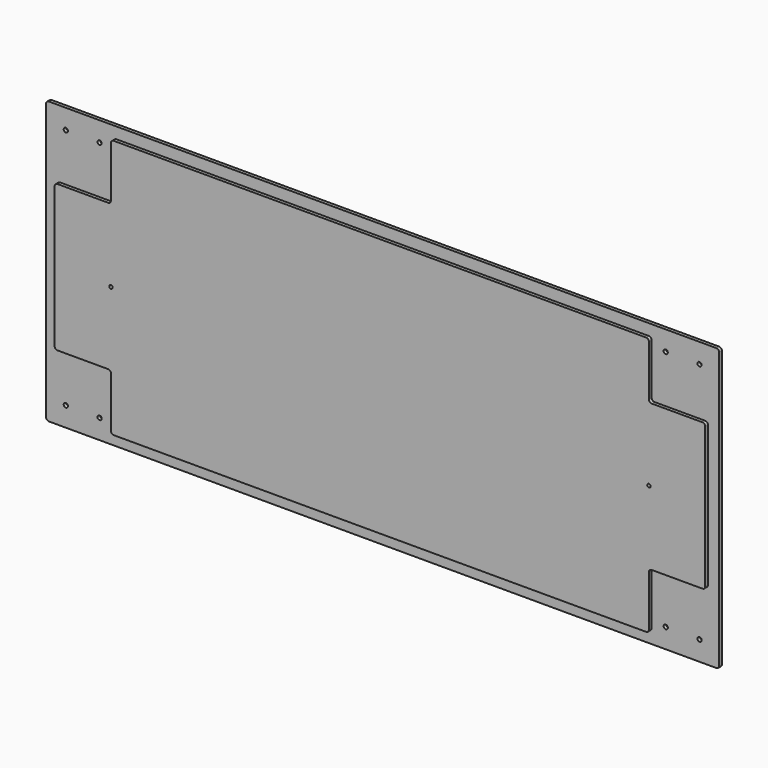
from build123d import *

# Parameters (mm, degrees)
F0_W     = 1154.9995206296
F0_H     = 460.000410676
F1_DEPTH = 6
F2_W     = 100
F2_H     = 100
F3_DEPTH = 6
F4_R     = 5
F5_W     = 1195
F5_H     = 500
F6_DEPTH = 3
F7_W     = 1195
F7_H     = 500
F8_DEPTH = 3
F9_R     = 5
F10_D    = 7.5
F12_D    = 6


with BuildPart() as f1:
    # F0 (on Front) → F1 (new body)
    with BuildSketch(Plane.XZ):
        with Locations((597.5013840944, 56.0599192977)):
            Rectangle(F0_W, F0_H)
    extrude(amount=F1_DEPTH)

    # F2 (on face) → F3 (cut)
    with BuildSketch(Plane.XZ.offset(6)):
        with Locations((70.0016237795, 236.0601246357)):
            Rectangle(F2_W, F2_H)
        with Locations((1125.0011444092, -123.9402860403)):
            Rectangle(F2_W, F2_H)
        with Locations((1125.0011444092, 236.0601246357)):
            Rectangle(F2_W, F2_H)
        with Locations((70.0016237795, -123.9402860403)):
            Rectangle(F2_W, F2_H)
    extrude(amount=-F3_DEPTH, mode=Mode.SUBTRACT)

    # F4
    f4_edges = [f1.edges().sort_by_distance(p)[0] for p in [
        (120.001624, -3, 286.060125),
        (120.001624, -3, 186.060125),
        (20.001624, -3, 186.060125),
        (20.001624, -3, -73.940286),
        (120.001624, -3, -73.940286),
        (120.001624, -3, -173.940286),
        (1075.001144, -3, -173.940286),
        (1075.001144, -3, -73.940286),
        (1175.001144, -3, -73.940286),
        (1175.001144, -3, 186.060125),
        (1075.001144, -3, 186.060125),
        (1075.001144, -3, 286.060125),
    ]]
    fillet(f4_edges, radius=F4_R)

    # F5 (on face) → F6 (join)
    with BuildSketch(Plane(origin=(0, 0, 0), x_dir=(-1, 0, 0), z_dir=(0, 1, 0))):
        with Locations((-597.5013840944, 56.0599192977)):
            Rectangle(F5_W, F5_H)
    extrude(amount=F6_DEPTH)

    # F7 (on face) → F8 (join)
    with BuildSketch(Plane(origin=(0, 3, 0), x_dir=(-1, 0, 0), z_dir=(0, 1, 0))):
        with Locations((-597.5013840944, 56.0599192977)):
            Rectangle(F7_W, F7_H)
    extrude(amount=F8_DEPTH)

    # F9
    f9_edges = [f1.edges().sort_by_distance(p)[0] for p in [
        (0.001384, 3, 306.059919),
        (0.001384, 3, -193.940081),
        (1195.001384, 3, -193.940081),
        (1195.001384, 3, 306.059919),
    ]]
    fillet(f9_edges, radius=F9_R)

    # F10 (through all)
    with Locations(Plane(origin=(0, 0, 0), x_dir=(-1, 0, 0), z_dir=(0, -1, 0))):
        with Locations((-35.0013840944, -271.0599192977), (-95.0016237795, -271.0599192977), (-35.0013840944, 158.9400807023), (-95.0016237795, 158.9400807023), (-1100.0011444092, -271.0599192977), (-1160.0013840944, -271.0599192977), (-1160.0013840944, 158.9400807023), (-1100.0011444092, 158.9400807023)):
            Hole(F10_D / 2)

    # F12 (through all)
    with Locations(Plane.XZ.offset(6)):
        with Locations((120.0016237795, 56.0599192977), (1075.0011444092, 56.0599192977)):
            Hole(F12_D / 2)


solid = f1.part
